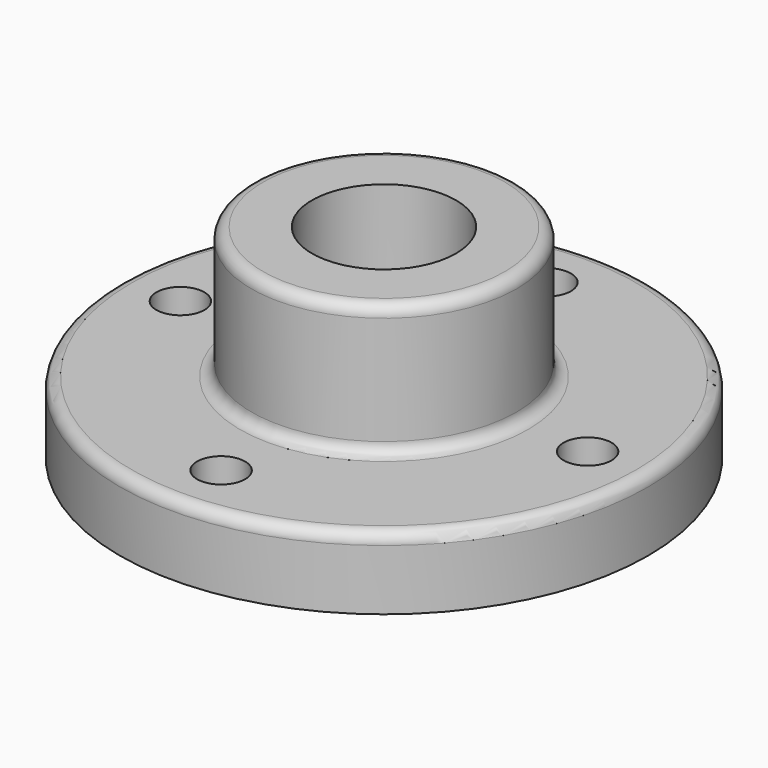
from build123d import *

# Parameters (mm, degrees)
F0_R     = 69.85
F0_R_2   = 6.35
F0_R_3   = 19.05
F1_DEPTH = 19.05
F2_R     = 35.052
F2_R_2   = 19.05
F3_DEPTH = 34.798
F4_R     = 3.048


with BuildPart() as f1:
    # F0 (on Top) → F1 (new body)
    with BuildSketch(Plane.XY):
        Circle(F0_R)
        with Locations((0, -53.848)):
            Circle(F0_R_2, mode=Mode.SUBTRACT)
        with Locations((-53.848, 0)):
            Circle(F0_R_2, mode=Mode.SUBTRACT)
        Circle(F0_R_3, mode=Mode.SUBTRACT)
        with Locations((53.848, 0)):
            Circle(F0_R_2, mode=Mode.SUBTRACT)
        with Locations((0, 53.848)):
            Circle(F0_R_2, mode=Mode.SUBTRACT)
    extrude(amount=F1_DEPTH)

    # F2 (on face) → F3 (join)
    with BuildSketch(Plane.XY.offset(19.05)):
        Circle(F2_R)
        Circle(F2_R_2, mode=Mode.SUBTRACT)
    extrude(amount=F3_DEPTH)

    # F4
    f4_edges = [f1.edges().sort_by_distance(p)[0] for p in [
        (-35.052, 0, 19.05),
        (-35.052, 0, 53.848),
        (-69.85, 0, 19.05),
    ]]
    fillet(f4_edges, radius=F4_R)


solid = f1.part
